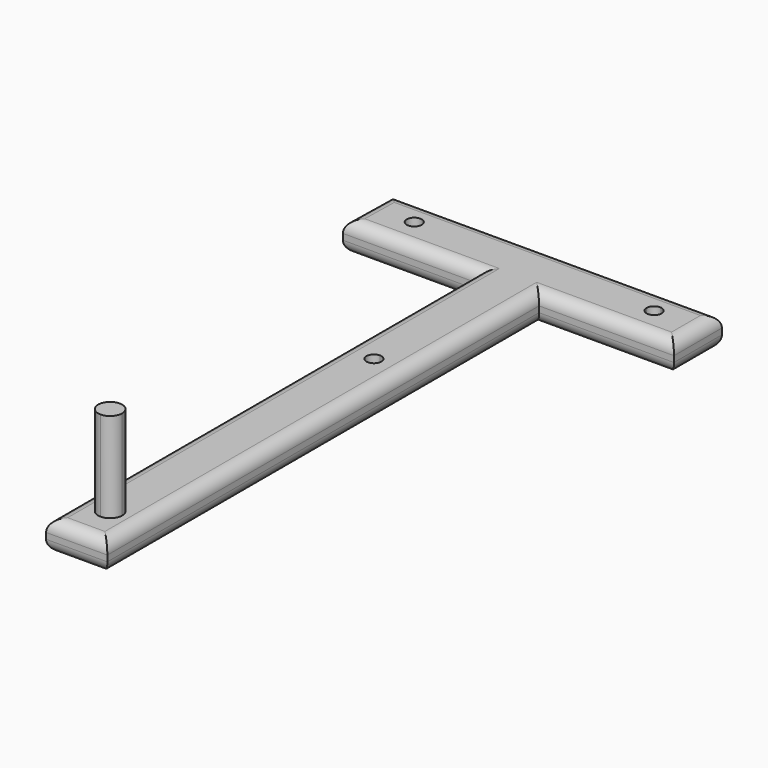
from build123d import *

# Parameters (mm, degrees)
F1_DEPTH = 6.35
F3_R     = 2.54
F4_DEPTH = 6.35
F5_DEPTH = 6.35
F6_DEPTH = 6.35
F7_DEPTH = 19.05


with BuildPart() as f1:
    # F0 (on Top) → F1 (new body)
    with BuildSketch(Plane.XY):
        Polygon((31.1166602765, 114.2971263717), (-38.7333397235, 114.2971263717), (-39.0034913485, 101.6), (-10.4284913485, 101.6), (-10.4284913485, -12.7), (2.5416602765, -12.7), (2.5416602765, 101.6), (31.1166602765, 101.6), align=None)
    extrude(amount=F1_DEPTH)

    # F3
    f3_edges = [f1.edges().sort_by_distance(p)[0] for p in [
        (-24.715991, 101.6, 6.35),
        (-38.868416, 107.948563, 6.35),
        (-3.80834, 114.297126, 6.35),
        (16.82916, 101.6, 6.35),
        (31.11666, 107.948563, 6.35),
        (2.54166, 44.45, 6.35),
        (-10.428491, 44.45, 6.35),
        (-3.943416, -12.7, 6.35),
        (-24.715991, 101.6, 0),
        (-38.868416, 107.948563, 0),
        (-3.80834, 114.297126, 0),
        (16.82916, 101.6, 0),
        (31.11666, 107.948563, 0),
        (2.54166, 44.45, 0),
        (-10.428491, 44.45, 0),
        (-3.943416, -12.7, 0),
    ]]
    fillet(f3_edges, radius=F3_R)

    # F2 (on face) → F4 (cut)
    with BuildSketch(Plane.XY.offset(6.35)):
        with BuildLine():
            Line((-27.6843397235, 108.3281263717), (-29.2718397235, 108.3281263717))
            Line((-29.2718397235, 108.3281263717), (-30.8593397235, 108.3281263717))
            ThreePointArc((-30.8593397235, 108.3281263717), (-29.2718397235, 106.7406263717), (-27.6843397235, 108.3281263717))
        make_face()
        with BuildLine():
            Line((-30.8593397235, 108.3281263717), (-29.2718397235, 108.3281263717))
            Line((-29.2718397235, 108.3281263717), (-27.6843397235, 108.3281263717))
            ThreePointArc((-27.6843397235, 108.3281263717), (-29.2718397235, 109.9156263717), (-30.8593397235, 108.3281263717))
        make_face()
    extrude(amount=-F4_DEPTH, mode=Mode.SUBTRACT)

    # F2 (on face) → F5 (cut)
    with BuildSketch(Plane.XY.offset(6.35)):
        with BuildLine():
            ThreePointArc((21.7121915103, 109.904923364), (20.4726967133, 109.5139395597), (19.9406602765, 108.3281263717))
            Line((19.9406602765, 108.3281263717), (21.5281602765, 108.3281263717))
            Line((21.5281602765, 108.3281263717), (21.7121915103, 108.3281263717))
            Line((21.7121915103, 108.3281263717), (21.7121915103, 109.904923364))
        make_face()
        with BuildLine():
            ThreePointArc((23.1156602765, 108.3281263717), (22.7139734645, 109.3835899349), (21.7121915103, 109.904923364))
            Line((21.7121915103, 109.904923364), (21.7121915103, 108.3281263717))
            Line((21.7121915103, 108.3281263717), (23.1156602765, 108.3281263717))
        make_face()
        with BuildLine():
            Line((21.7121915103, 108.3281263717), (21.7121915103, 106.7513293794))
            ThreePointArc((21.7121915103, 106.7513293794), (22.7139734645, 107.2726628086), (23.1156602765, 108.3281263717))
            Line((23.1156602765, 108.3281263717), (21.7121915103, 108.3281263717))
        make_face()
        with BuildLine():
            Line((21.5281602765, 108.3281263717), (19.9406602765, 108.3281263717))
            ThreePointArc((19.9406602765, 108.3281263717), (20.4726967133, 107.1423131837), (21.7121915103, 106.7513293794))
            Line((21.7121915103, 106.7513293794), (21.7121915103, 108.3281263717))
            Line((21.7121915103, 108.3281263717), (21.5281602765, 108.3281263717))
        make_face()
    extrude(amount=-F5_DEPTH, mode=Mode.SUBTRACT)

    # F2 (on face) → F6 (cut)
    with BuildSketch(Plane.XY.offset(6.35)):
        with BuildLine():
            Line((-3.8718397235, 65.912123364), (-3.8718397235, 67.499623364))
            ThreePointArc((-3.8718397235, 67.499623364), (-5.4593397235, 65.912123364), (-3.8718397235, 64.324623364))
            Line((-3.8718397235, 64.324623364), (-3.8718397235, 65.912123364))
        make_face()
        with BuildLine():
            ThreePointArc((-2.2843397235, 65.912123364), (-2.7493077084, 67.0346553792), (-3.8718397235, 67.499623364))
            Line((-3.8718397235, 67.499623364), (-3.8718397235, 65.912123364))
            Line((-3.8718397235, 65.912123364), (-2.2843397235, 65.912123364))
        make_face()
        with BuildLine():
            ThreePointArc((-3.8718397235, 64.324623364), (-2.7493077084, 64.7895913489), (-2.2843397235, 65.912123364))
            Line((-2.2843397235, 65.912123364), (-3.8718397235, 65.912123364))
            Line((-3.8718397235, 65.912123364), (-3.8718397235, 64.324623364))
        make_face()
    extrude(amount=-F6_DEPTH, mode=Mode.SUBTRACT)

    # F2 (on face) → F7 (join)
    with BuildSketch(Plane.XY.offset(6.35)):
        with BuildLine():
            Line((-3.8718397235, -3.937876636), (-3.8718397235, -1.397876636))
            ThreePointArc((-3.8718397235, -1.397876636), (-6.4118397235, -3.937876636), (-3.8718397235, -6.477876636))
            Line((-3.8718397235, -6.477876636), (-3.8718397235, -3.937876636))
        make_face()
        with BuildLine():
            ThreePointArc((-1.3318397235, -3.937876636), (-2.0757884993, -2.1418254117), (-3.8718397235, -1.397876636))
            Line((-3.8718397235, -1.397876636), (-3.8718397235, -3.937876636))
            Line((-3.8718397235, -3.937876636), (-1.3318397235, -3.937876636))
        make_face()
        with BuildLine():
            Line((-1.3318397235, -3.937876636), (-3.8718397235, -3.937876636))
            Line((-3.8718397235, -3.937876636), (-3.8718397235, -6.477876636))
            ThreePointArc((-3.8718397235, -6.477876636), (-2.0757884993, -5.7339278602), (-1.3318397235, -3.937876636))
        make_face()
    extrude(amount=F7_DEPTH)


solid = f1.part
